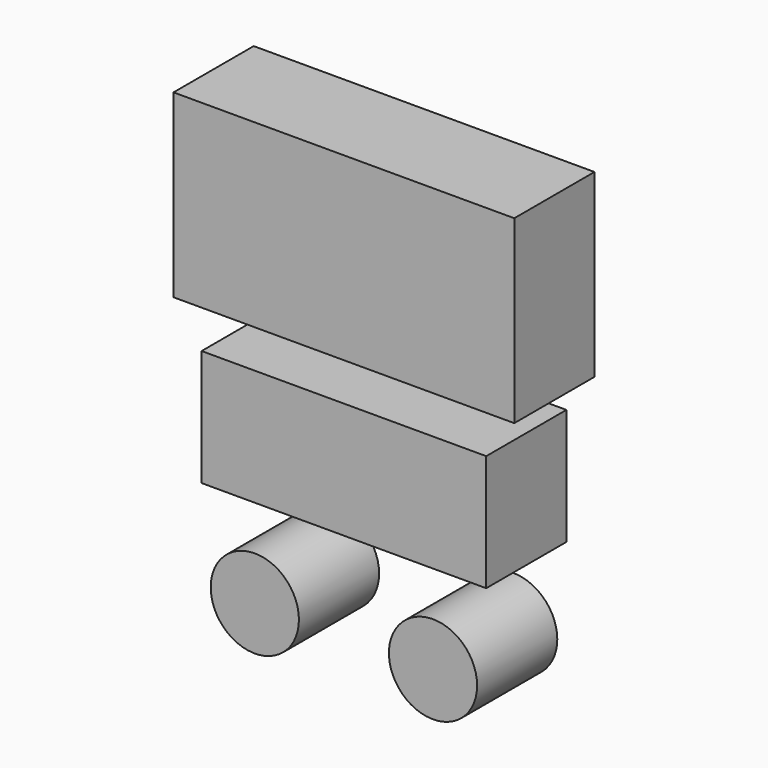
from build123d import *

# Parameters (mm, degrees)
F0_W     = 85
F0_H     = 45
F0_W_2   = 71
F0_H_2   = 29
F0_R     = 11
F1_DEPTH = 25


with BuildPart() as f1:
    # F0 (on Front) → F1 (new body)
    with BuildSketch(Plane.XZ):
        with Locations((-31.018302, 76.861121)):
            Rectangle(F0_W, F0_H)
        with Locations((-31.018302, 30.336121)):
            Rectangle(F0_W_2, F0_H_2)
        with Locations((-53.243302, -6.276379)):
            Circle(F0_R)
        with Locations((-8.793302, -6.276379)):
            Circle(F0_R)
    extrude(amount=F1_DEPTH)


solid = f1.part
